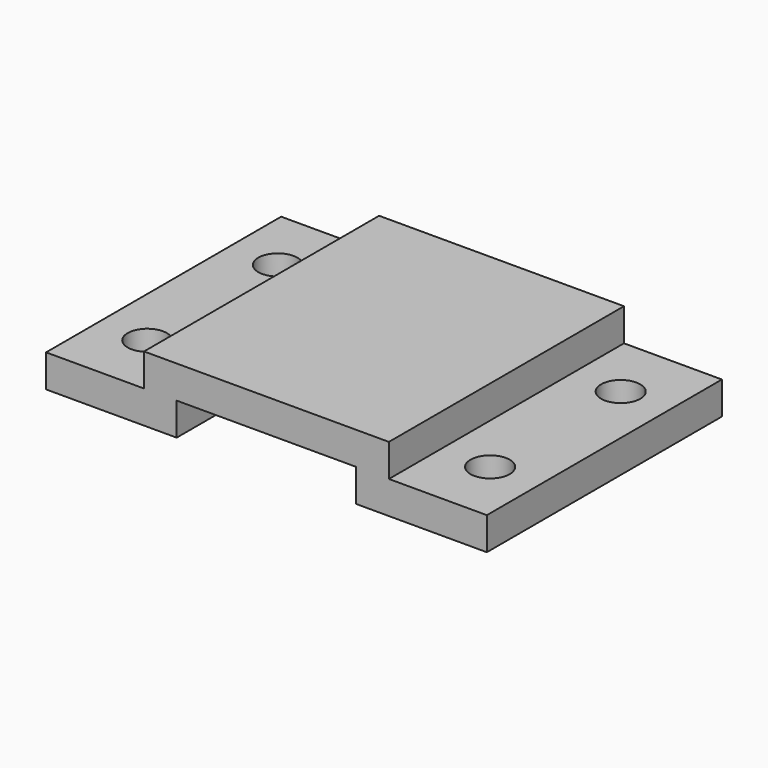
from build123d import *

# Parameters (mm, degrees)
F1_DEPTH = 45
F2_R     = 6
F3_DEPTH = 10.001


with BuildPart() as f1:
    # F0 (on Front) → F1 (new body, symmetric)
    with BuildSketch(Plane.XZ):
        Polygon((0, 10), (0, 20), (-37.5, 20), (-37.5, 10), (-67.5, 10), (-67.5, 0), (-27.5, 0), (-27.5, 10), align=None)
        Polygon((37.5, 20), (0, 20), (0, 10), (27.5, 10), (27.5, 0), (67.5, 0), (67.5, 10), (37.5, 10), align=None)
    extrude(amount=F1_DEPTH, both=True)

    # F2 (on face) → F3 (cut, through all)
    with BuildSketch(Plane.XY.offset(10)):
        with Locations((-52.5, 25)):
            Circle(F2_R)
        with Locations((52.5, 25)):
            Circle(F2_R)
        with Locations((52.5, -25)):
            Circle(F2_R)
        with Locations((-52.5, -25)):
            Circle(F2_R)
    extrude(amount=-F3_DEPTH, mode=Mode.SUBTRACT)


solid = f1.part
